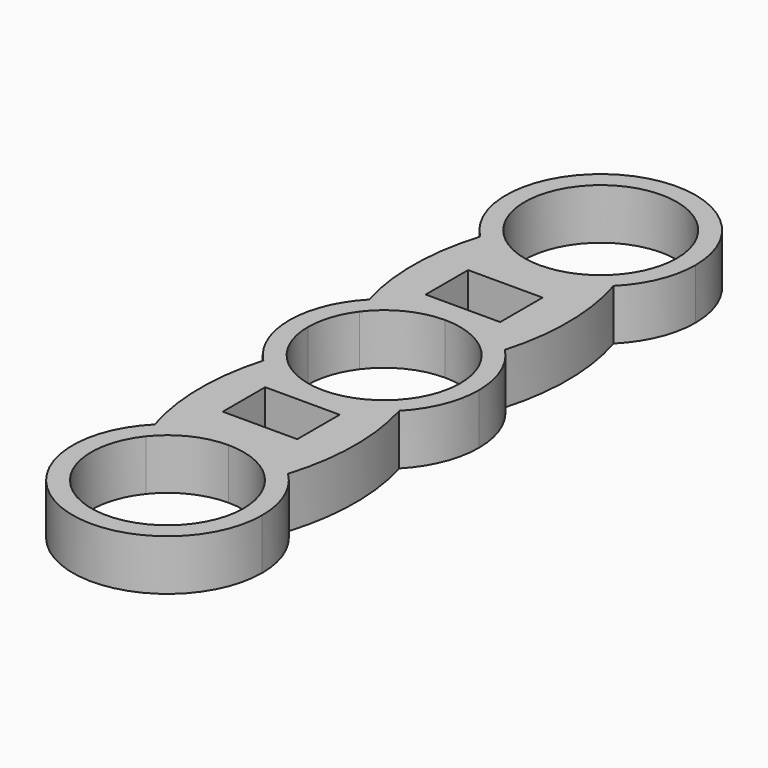
from build123d import *

# Parameters (mm, degrees)
F1_DEPTH = 7.5


with BuildPart() as f1:
    # F0 (on Top) → F1 (new body)
    with BuildSketch(Plane.XY):
        with BuildLine():
            ThreePointArc((8.7951269587, 32.985141357), (9.3550716579, 31.5299513828), (9.8501945992, 30.0514490323))
            ThreePointArc((9.8501945992, 30.0514490323), (12.9209659931, 34.6103211779), (14, 40))
            ThreePointArc((14, 40), (-5.3896788221, 52.9209659931), (-9.8501945992, 30.0514490323))
            ThreePointArc((-9.8501945992, 30.0514490323), (-9.3550716579, 31.5299513828), (-8.7951269587, 32.985141357))
            ThreePointArc((-8.7951269587, 32.985141357), (-3.7160006536, 50.6185610674), (11.25, 40))
            ThreePointArc((11.25, 40), (10.6185610674, 36.2839993464), (8.7951269587, 32.985141357))
        make_face()
        with BuildLine():
            ThreePointArc((0, 26), (5.3254242297, 27.0524188833), (9.8501945992, 30.0514490323))
            ThreePointArc((9.8501945992, 30.0514490323), (9.3550716579, 31.5299513828), (8.7951269587, 32.985141357))
            ThreePointArc((8.7951269587, 32.985141357), (4.8808472762, 29.8639342017), (0, 28.75))
            Line((0, 28.75), (0, 26))
        make_face()
        with BuildLine():
            ThreePointArc((-9.8501945992, 30.0514490323), (-5.3254242297, 27.0524188833), (0, 26))
            Line((0, 26), (0, 28.75))
            ThreePointArc((0, 28.75), (-4.8808472762, 29.8639342017), (-8.7951269587, 32.985141357))
            ThreePointArc((-8.7951269587, 32.985141357), (-9.3550716579, 31.5299513828), (-9.8501945992, 30.0514490323))
        make_face()
        with BuildLine():
            ThreePointArc((0, 14), (5.4503386544, 12.8954956691), (10.040688359, 9.7562583646))
            ThreePointArc((10.040688359, 9.7562583646), (11.4358727735, 19.9178431142), (9.8501945992, 30.0514490323))
            ThreePointArc((9.8501945992, 30.0514490323), (5.3254242297, 27.0524188833), (0, 26))
            Line((0, 26), (0, 22.6483326405))
            Line((0, 22.6483326405), (5.2916659042, 22.6483326405))
            Line((5.2916659042, 22.6483326405), (5.2916659042, 14.8166660219))
            Line((5.2916659042, 14.8166660219), (0, 14.8166660219))
            Line((0, 14.8166660219), (0, 14))
        make_face()
        with BuildLine():
            ThreePointArc((-10.040688359, 9.7562583646), (-5.4503386544, 12.8954956691), (0, 14))
            Line((0, 14), (0, 14.8166660219))
            Line((0, 14.8166660219), (-5.7150004432, 14.8166660219))
            Line((-5.7150004432, 14.8166660219), (-5.7150004432, 22.6483326405))
            Line((-5.7150004432, 22.6483326405), (0, 22.6483326405))
            Line((0, 22.6483326405), (0, 26))
            ThreePointArc((0, 26), (-5.3254242297, 27.0524188833), (-9.8501945992, 30.0514490323))
            ThreePointArc((-9.8501945992, 30.0514490323), (-11.4358727735, 19.9178431142), (-10.040688359, 9.7562583646))
        make_face()
        with BuildLine():
            ThreePointArc((0, 11.25), (5.0410157742, 10.0573684413), (9.013218304, 6.7323395492))
            ThreePointArc((9.0132183039, 6.7323395492), (9.5611769089, 8.2326704367), (10.040688359, 9.7562583646))
            ThreePointArc((10.040688359, 9.7562583646), (5.4503386544, 12.8954956691), (0, 14))
            Line((0, 14), (0, 11.25))
        make_face()
        with BuildLine():
            ThreePointArc((9.013218304, 6.7323395492), (10.6761698638, 3.5470969877), (11.25, 0))
            Line((11.25, 0), (14, 0))
            ThreePointArc((14, 0), (12.9724638567, 5.2645210121), (10.040688359, 9.7562583646))
            ThreePointArc((10.040688359, 9.7562583646), (9.5611769089, 8.2326704367), (9.0132183039, 6.7323395492))
        make_face()
        with BuildLine():
            ThreePointArc((-9.013218304, 6.7323395492), (-5.0410157742, 10.0573684413), (0, 11.25))
            Line((0, 11.25), (0, 14))
            ThreePointArc((0, 14), (-5.4503386544, 12.8954956691), (-10.040688359, 9.7562583646))
            ThreePointArc((-10.040688359, 9.7562583646), (-9.5611769089, 8.2326704367), (-9.0132183039, 6.7323395492))
        make_face()
        with BuildLine():
            ThreePointArc((-11.25, 0), (-10.6761698638, 3.5470969877), (-9.013218304, 6.7323395492))
            ThreePointArc((-9.0132183039, 6.7323395492), (-9.5611769089, 8.2326704367), (-10.040688359, 9.7562583646))
            ThreePointArc((-10.040688359, 9.7562583646), (-12.9724638567, 5.2645210121), (-14, 0))
            Line((-14, 0), (-11.25, 0))
        make_face()
        with BuildLine():
            ThreePointArc((-10.040688359, -9.7562583646), (-9.5611769089, -8.2326704367), (-9.0132183039, -6.7323395492))
            ThreePointArc((-9.013218304, -6.7323395492), (-10.6761698638, -3.5470969877), (-11.25, 0))
            Line((-11.25, 0), (-14, 0))
            ThreePointArc((-14, 0), (-12.9724638567, -5.2645210121), (-10.040688359, -9.7562583646))
        make_face()
        with BuildLine():
            Line((14, 0), (11.25, 0))
            ThreePointArc((11.25, 0), (10.6761698638, -3.5470969877), (9.013218304, -6.7323395492))
            ThreePointArc((9.0132183039, -6.7323395492), (9.5611769089, -8.2326704367), (10.040688359, -9.7562583646))
            ThreePointArc((10.040688359, -9.7562583646), (12.9724638567, -5.2645210121), (14, 0))
        make_face()
        with BuildLine():
            ThreePointArc((10.040688359, -9.7562583646), (9.5611769089, -8.2326704367), (9.0132183039, -6.7323395492))
            ThreePointArc((9.013218304, -6.7323395492), (5.0410157742, -10.0573684413), (0, -11.25))
            Line((0, -11.25), (0, -14))
            ThreePointArc((0, -14), (5.4503386544, -12.8954956691), (10.040688359, -9.7562583646))
        make_face()
        with BuildLine():
            Line((0, -14), (0, -11.25))
            ThreePointArc((0, -11.25), (-5.0410157742, -10.0573684413), (-9.013218304, -6.7323395492))
            ThreePointArc((-9.0132183039, -6.7323395492), (-9.5611769089, -8.2326704367), (-10.040688359, -9.7562583646))
            ThreePointArc((-10.040688359, -9.7562583646), (-5.4503386544, -12.8954956691), (0, -14))
        make_face()
        with BuildLine():
            Line((0, -14.8166660219), (0, -14))
            ThreePointArc((0, -14), (-5.4503386544, -12.8954956691), (-10.040688359, -9.7562583646))
            ThreePointArc((-10.040688359, -9.7562583646), (-11.4358727735, -19.9178431142), (-9.8501945992, -30.0514490323))
            ThreePointArc((-9.8501945992, -30.0514490323), (-5.3254242297, -27.0524188833), (0, -26))
            Line((0, -26), (0, -22.6483326405))
            Line((0, -22.6483326405), (-5.7150004432, -22.6483326405))
            Line((-5.7150004432, -22.6483326405), (-5.7150004432, -14.8166660219))
            Line((-5.7150004432, -14.8166660219), (0, -14.8166660219))
        make_face()
        with BuildLine():
            ThreePointArc((9.8501945992, -30.0514490323), (11.4358727735, -19.9178431142), (10.040688359, -9.7562583646))
            ThreePointArc((10.040688359, -9.7562583646), (5.4503386544, -12.8954956691), (0, -14))
            Line((0, -14), (0, -14.8166660219))
            Line((0, -14.8166660219), (5.2916659042, -14.8166660219))
            Line((5.2916659042, -14.8166660219), (5.2916659042, -22.6483326405))
            Line((5.2916659042, -22.6483326405), (0, -22.6483326405))
            Line((0, -22.6483326405), (0, -26))
            ThreePointArc((0, -26), (5.3254242297, -27.0524188833), (9.8501945992, -30.0514490323))
        make_face()
        with BuildLine():
            ThreePointArc((14, -40), (12.9209659931, -34.6103211779), (9.8501945992, -30.0514490323))
            ThreePointArc((9.8501945992, -30.0514490323), (9.3550716579, -31.5299513828), (8.7951269587, -32.985141357))
            ThreePointArc((8.7951269587, -32.985141357), (10.6185610674, -36.2839993464), (11.25, -40))
            ThreePointArc((11.25, -40), (-3.7160006536, -50.6185610674), (-8.7951269587, -32.985141357))
            ThreePointArc((-8.7951269587, -32.985141357), (-9.3550716579, -31.5299513828), (-9.8501945992, -30.0514490323))
            ThreePointArc((-9.8501945992, -30.0514490323), (-5.3896788221, -52.9209659931), (14, -40))
        make_face()
        with BuildLine():
            Line((0, -28.75), (0, -26))
            ThreePointArc((0, -26), (-5.3254242297, -27.0524188833), (-9.8501945992, -30.0514490323))
            ThreePointArc((-9.8501945992, -30.0514490323), (-9.3550716579, -31.5299513828), (-8.7951269587, -32.985141357))
            ThreePointArc((-8.7951269587, -32.985141357), (-4.8808472762, -29.8639342017), (0, -28.75))
        make_face()
        with BuildLine():
            ThreePointArc((8.7951269587, -32.985141357), (9.3550716579, -31.5299513828), (9.8501945992, -30.0514490323))
            ThreePointArc((9.8501945992, -30.0514490323), (5.3254242297, -27.0524188833), (0, -26))
            Line((0, -26), (0, -28.75))
            ThreePointArc((0, -28.75), (4.8808472762, -29.8639342017), (8.7951269587, -32.985141357))
        make_face()
    extrude(amount=F1_DEPTH)


solid = f1.part
